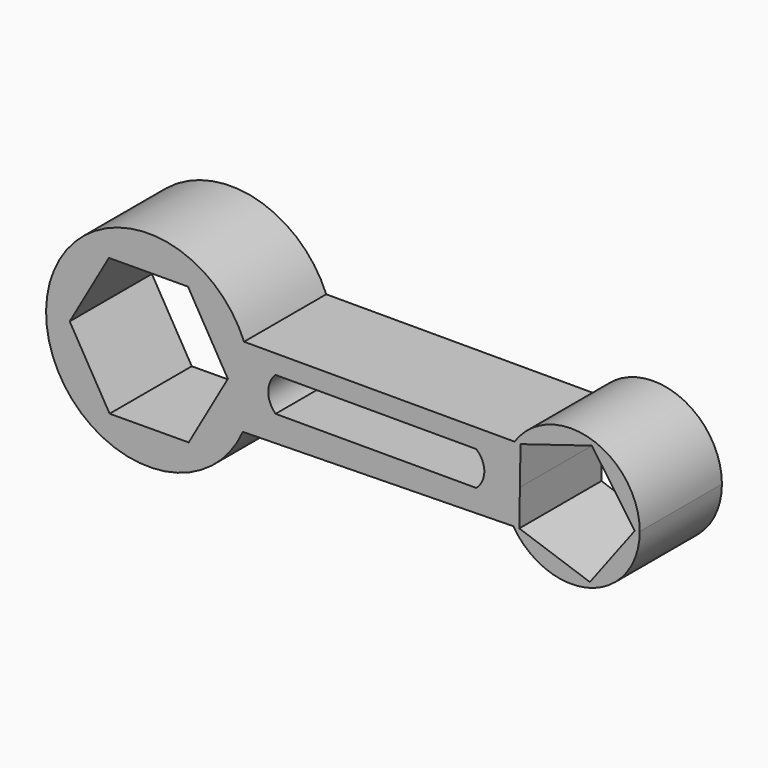
from build123d import *

# Parameters (mm, degrees)
F1_DEPTH = 30


with BuildPart() as f1:
    # F0 (on Front) → F1 (new body)
    with BuildSketch(Plane.XZ):
        with BuildLine():
            ThreePointArc((-14.7189177922, -12.0731056636), (-12.8233398948, -6.168347743), (-12.1823502003, 0))
            ThreePointArc((-12.1823502003, 0), (-12.7313900211, 5.7132254045), (-14.3584131685, 11.2173315922))
            ThreePointArc((-14.3584131685, 11.2173315922), (-72.178757015, 0.4643040074), (-14.7189177922, -12.0731056636))
        make_face()
        Polygon((-30.7383209178, 20.0591008551), (-19.0886446415, 0.1187303472), (-30.532673924, -19.9403705079), (-53.6263794829, -20.0591008551), (-65.2760557592, -0.1187303472), (-53.8320264766, 19.9403705079), align=None, mode=Mode.SUBTRACT)
        with BuildLine():
            ThreePointArc((-14.3584131685, 11.2173315922), (-12.7313900211, 5.7132254045), (-12.1823502003, 0))
            ThreePointArc((-12.1823502003, 0), (-12.8233398948, -6.168347743), (-14.7189177922, -12.0731056636))
            Line((-14.7189177922, -12.0731056636), (64.2681791355, -10.6453385498))
            ThreePointArc((64.2681791355, -10.6453385498), (61.2026273995, 0.3415440484), (64.6415868315, 11.2173315922))
            Line((64.6415868315, 11.2173315922), (-14.3584131685, 11.2173315922))
        make_face()
        with BuildLine():
            ThreePointArc((-5.1515232772, -4.3269232847), (-7.3021761652, 0.6730767153), (-5.1515232772, 5.6730767153))
            Line((-5.1515232772, 5.6730767153), (53.4061715007, 5.6730767153))
            ThreePointArc((53.4061715007, 5.6730767153), (55.808235454, 0.6730767153), (53.4061715007, -4.3269232847))
            Line((53.4061715007, -4.3269232847), (-5.1515232772, -4.3269232847))
        make_face(mode=Mode.SUBTRACT)
        with BuildLine():
            ThreePointArc((101.1997108784, 0), (87.0664612166, 19.1201788817), (64.6415868315, 11.2173315922))
            ThreePointArc((64.6415868315, 11.2173315922), (61.2026273995, 0.3415440484), (64.2681791355, -10.6453385498))
            ThreePointArc((64.2681791355, -10.6453385498), (86.7390865265, -19.2175783445), (101.1997108784, 0))
        make_face()
        Polygon((87.223782972, 17.5351066588), (99.7381289824, -0.3105870635), (86.6330112708, -17.7270600205), (66.0192570879, -10.6453385498), (66.1971306066, -0.0283681482), (66.3843740788, 11.147878975), align=None, mode=Mode.SUBTRACT)
    extrude(amount=F1_DEPTH)


solid = f1.part
